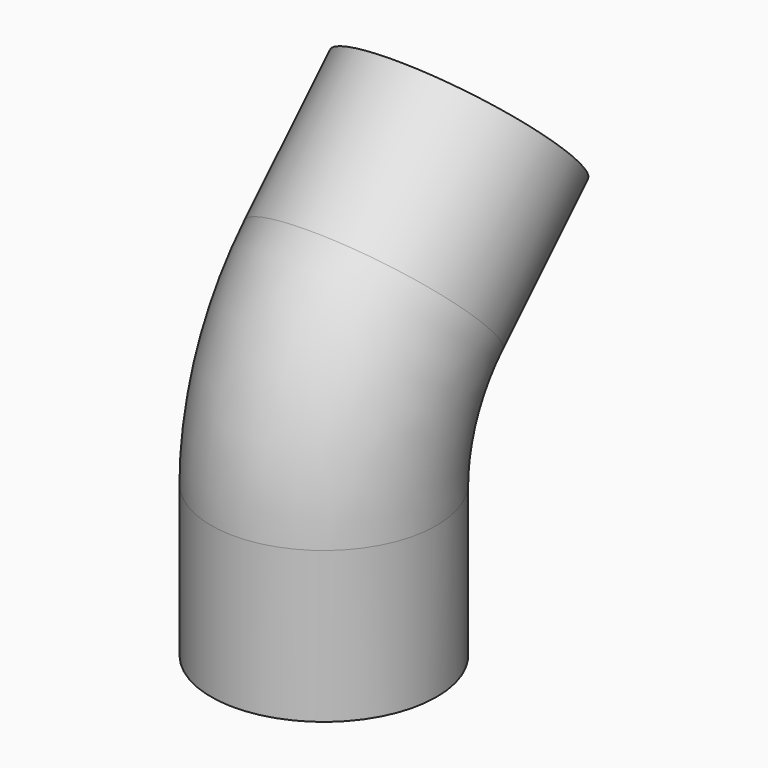
from build123d import *

# Parameters (mm, degrees)
F0_R   = 8.5
F0_R_2 = 8


with BuildPart() as f2:
    # F2: sweep along a path in F1
    with BuildLine(Plane.YZ) as f2_path:
        Line((0, 0), (0, 11.372583))
        ThreePointArc((0, 11.372583), (1.217927, 17.495518), (4.686292, 22.686292))
        Line((4.686292, 22.686292), (12.727922, 30.727922))
    # F0 (on Top) → F2 (sweep)
    with BuildSketch(Plane.XY):
        Circle(F0_R)
        Circle(F0_R_2, mode=Mode.SUBTRACT)
    sweep(path=f2_path.line)


solid = f2.part
